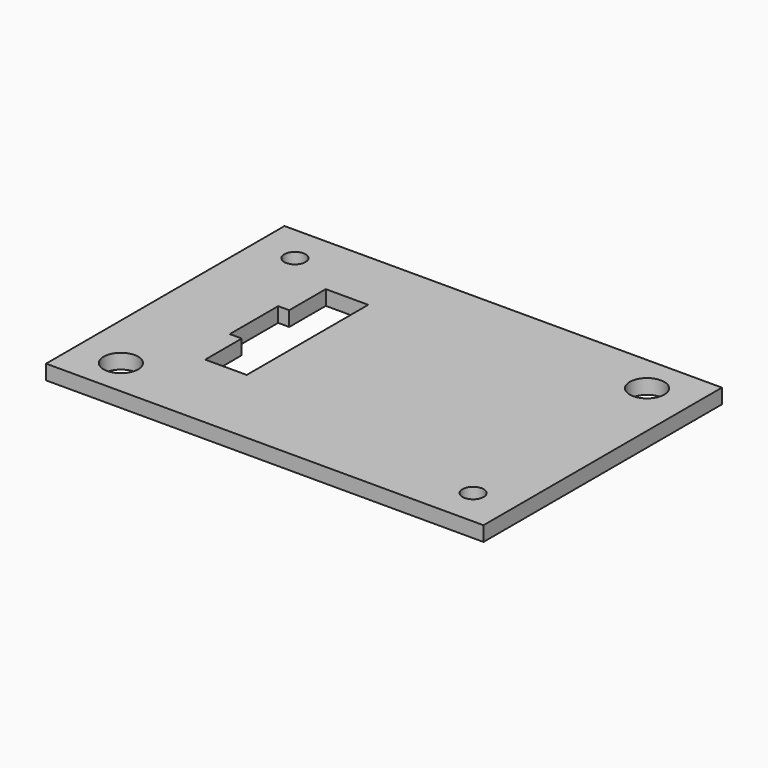
from build123d import *

# Parameters (mm, degrees)
F8_W      = 60.2088514067
F8_H      = 41.021
F9_DEPTH  = 2.032
F6_R      = 2.3749
F7_R      = 2.3749
F10_DEPTH = 12.192
F3_R      = 1.4605
F5_R      = 1.4605
F11_DEPTH = 12.192
F13_DEPTH = 2.286


with BuildPart() as f9:
    # F8 (on Top) → F9 (new body)
    with BuildSketch(Plane.XY):
        Rectangle(F8_W, F8_H)
    extrude(amount=F9_DEPTH)

    # F6 (on face) + F7 (on face) → F10 (cut)
    with BuildSketch(Plane.XY):
        with Locations((-23.9141, -15.367)):
            Circle(F6_R)
    with BuildSketch(Plane.XY):
        with Locations((23.9141, 15.367)):
            Circle(F7_R)
    extrude(amount=F10_DEPTH, mode=Mode.SUBTRACT)

    # F3 (on face) + F5 (on face) → F11 (cut)
    with BuildSketch(Plane.XY):
        with Locations((-24.5581628517, 15.367)):
            Circle(F3_R)
    with BuildSketch(Plane.XY):
        with Locations((24.5581628517, -15.367)):
            Circle(F5_R)
    extrude(amount=F11_DEPTH, mode=Mode.SUBTRACT)

    # F12 (on Top) → F13 (cut)
    with BuildSketch(Plane.XY):
        Polygon((-11.6205, -9.0932), (-11.6205, 11.811), (-17.4625, 11.811), (-17.4625, 5.5245), (-18.9865, 5.5245), (-18.9865, -2.8067), (-17.3355, -2.8067), (-17.3355, -9.0932), align=None)
    extrude(amount=F13_DEPTH, mode=Mode.SUBTRACT)


solid = f9.part
